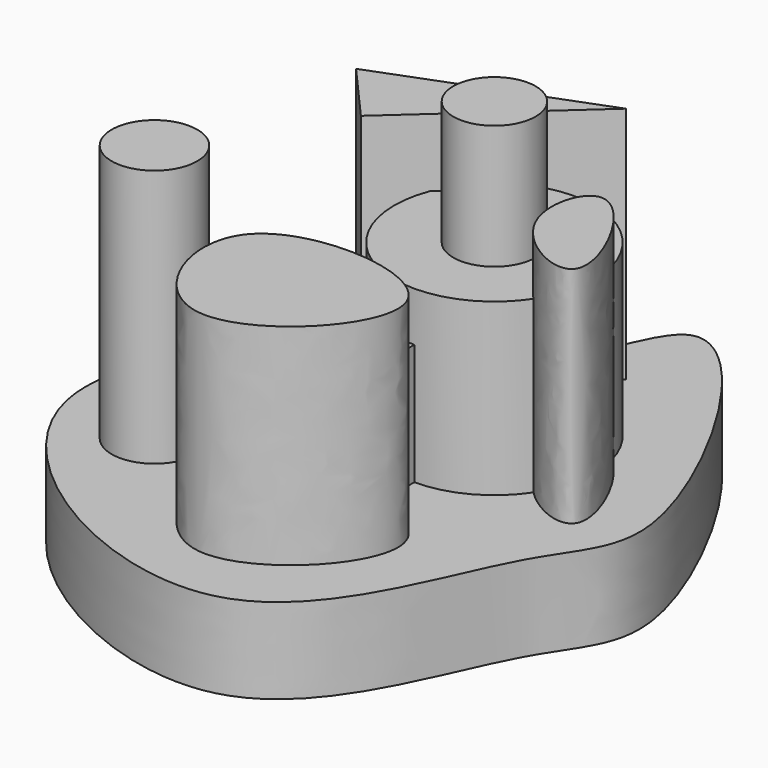
from build123d import *

# Parameters (mm, degrees)
F1_DEPTH  = 42.164
F2_W      = 38.5241918266
F2_H      = 127.3398250341
F3_DEPTH  = 59.69
F5_DEPTH  = 110.49
F6_R      = 21.1112099369
F7_DEPTH  = 127.254
F8_R      = 20.3190246202
F9_DEPTH  = 145.288
F11_DEPTH = 103.632
F13_DEPTH = 117.602
F14_R     = 49.4106049206
F15_DEPTH = 84.074


with BuildPart() as f1:
    # F0 (on Top) → F1 (new body)
    with BuildSketch(Plane.XY):
        with BuildLine():
            add(Edge.make_bspline(
                [(73.0219110847, -74.1029083729), (56.3103769833, -104.5552977689), (23.6058214348, -227.5197938922), (-227.6389689023, -79.5455249771), (-49.3392070816, 69.8421969004), (-108.2327801079, 182.9374174128), (-16.163777477, 18.2847889977), (-0.491220386, 174.7950672476), (118.0380933666, -29.7226842084), (84.8996382345, -52.4588647972), (73.0219110847, -74.1029083729)],
                knots=[0, 0, 0, 0, 0.1341068342, 0.2949926086, 0.459518833, 0.5453522264, 0.6635342284, 0.7534064499, 0.9046835332, 1, 1, 1, 1], degree=3))
        make_face()
    extrude(amount=-F1_DEPTH)

    # F2 (on Top) → F3 (join)
    with BuildSketch(Plane.XY):
        with Locations((-19.2620959133, -63.6699125171)):
            Rectangle(F2_W, F2_H)
    extrude(amount=F3_DEPTH)

    # F4 (on Top) → F5 (join)
    with BuildSketch(Plane.XY):
        with BuildLine():
            add(Edge.make_bspline(
                [(70.0295418501, -37.003710866), (64.9955145523, -45.542062589), (19.8707773949, -22.1192495036), (40.0389015381, 41.8701568269), (75.9834949815, -26.905047714), (70.0295418501, -37.003710866)],
                knots=[0, 0, 0, 0, 0.3269025935, 0.6133587275, 1, 1, 1, 1], degree=3))
        make_face()
    extrude(amount=F5_DEPTH)

    # F6 (on Top) → F7 (join)
    with BuildSketch(Plane.XY):
        with Locations((-100.9698063135, -83.3783745766)):
            Circle(F6_R)
    extrude(amount=F7_DEPTH)

    # F8 (on Top) → F9 (join)
    with BuildSketch(Plane.XY):
        Circle(F8_R)
    extrude(amount=F9_DEPTH)

    # F10 (on Top) → F11 (join)
    with BuildSketch(Plane.XY):
        with BuildLine():
            add(Edge.make_bspline(
                [(-29.430905357, -146.0287123919), (-54.6330226066, -142.3830478337), (-88.9750749471, -58.5173988284), (75.1826600594, -71.0009478728), (-1.8596938378, -150.0170831968), (-29.430905357, -146.0287123919)],
                knots=[0, 0, 0, 0, 0.3121569838, 0.6584990799, 1, 1, 1, 1], degree=3))
        make_face()
    extrude(amount=F11_DEPTH)

    # F12 (on Top) → F13 (join)
    with BuildSketch(Plane.XY):
        Polygon((10.1382983848, 68.4409886599), (-91.8220505118, 29.4863004237), (-65.8660754561, 0), align=None)
    extrude(amount=F13_DEPTH)

    # F14 (on face) → F15 (join)
    with BuildSketch(Plane.XY):
        Circle(F14_R)
    extrude(amount=F15_DEPTH)


solid = f1.part
